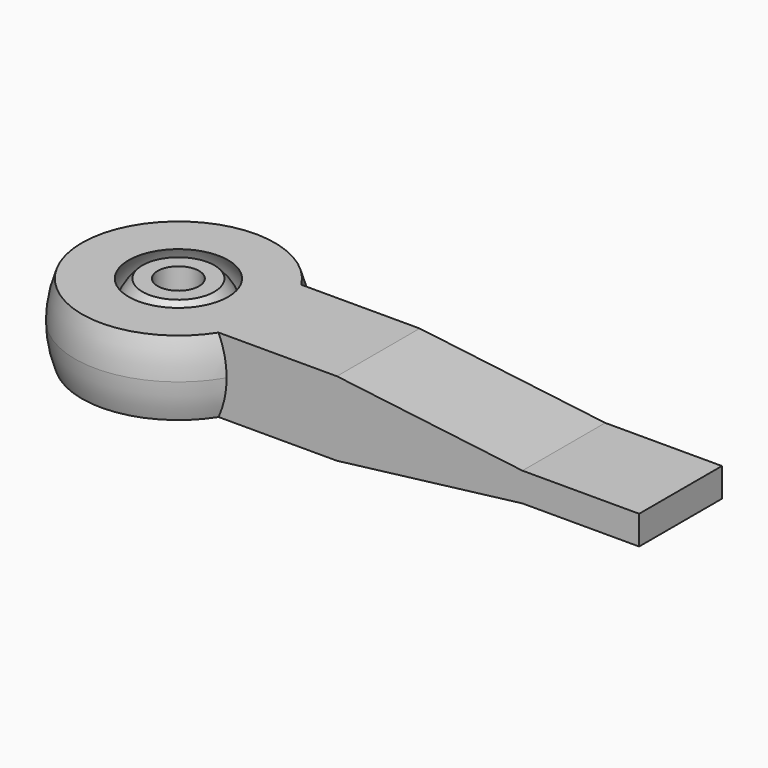
from build123d import *

# Parameters (mm, degrees)
F2_DEPTH      = 5
F2_DEPTH_BACK = 5


with BuildPart() as f1:
    # F0 (on Front) → F1 (revolve)
    with BuildSketch(Plane.XZ):
        with BuildLine():
            ThreePointArc((3.4750503593, -3.595), (4.6030018356, -1.9525301794), (5, 0))
            Line((5, 0), (2, 0))
            Line((2, 0), (2, -3.595))
            Line((2, -3.595), (3.4750503593, -3.595))
        make_face()
        with BuildLine():
            Line((2, 0), (5, 0))
            ThreePointArc((5, 0), (4.6030018356, 1.9525301794), (3.4750503593, 3.595))
            Line((3.4750503593, 3.595), (2, 3.595))
            Line((2, 3.595), (2, 0))
        make_face()
    revolve(axis=Axis((0, 0, -0.8289581165), (0, 0, -1)))


with BuildPart() as f1b:
    # F0 (on Front) → F1, piece 2 (revolve)
    with BuildSketch(Plane.XZ):
        with BuildLine():
            Line((7.067598393, -3.595), (7.067598393, 0))
            Line((7.067598393, 0), (6, 0))
            ThreePointArc((6, 0), (5.693086843, -1.8944028604), (4.8037459342, -3.595))
            Line((4.8037459342, -3.595), (7.067598393, -3.595))
        make_face()
        with BuildLine():
            Line((7.067598393, 0), (7.067598393, 3.595))
            Line((7.067598393, 3.595), (4.8037459342, 3.595))
            ThreePointArc((4.8037459342, 3.595), (5.693086843, 1.8944028604), (6, 0))
            Line((6, 0), (7.067598393, 0))
        make_face()
        with BuildLine():
            ThreePointArc((10, 0), (9.8314421251, 1.8283177352), (9.3314508518, 3.595))
            Line((9.3314508518, 3.595), (7.067598393, 3.595))
            Line((7.067598393, 3.595), (7.067598393, 0))
            Line((7.067598393, 0), (10, 0))
        make_face()
        with BuildLine():
            ThreePointArc((9.3314508518, -3.595), (9.8314421251, -1.8283177352), (10, 0))
            Line((10, 0), (7.067598393, 0))
            Line((7.067598393, 0), (7.067598393, -3.595))
            Line((7.067598393, -3.595), (9.3314508518, -3.595))
        make_face()
    revolve(axis=Axis((0, 0, -0.8289581165), (0, 0, -1)))

    # F0 (on Front) → F2 (join, two sides)
    with BuildSketch(Plane.XZ) as f2_sk:
        with BuildLine():
            Line((19.3147519061, 3.595), (9.3314508518, 3.595))
            ThreePointArc((9.3314508518, 3.595), (9.8314421251, 1.8283177352), (10, 0))
            ThreePointArc((10, 0), (9.8314421251, -1.8283177352), (9.3314508518, -3.595))
            Line((9.3314508518, -3.595), (19.3147519061, -3.595))
            Line((19.3147519061, -3.595), (37.2479334474, -1.3942536898))
            Line((37.2479334474, -1.3942536898), (48.5257059336, -1.3942536898))
            Line((48.5257059336, -1.3942536898), (48.5257059336, 1.3942536898))
            Line((48.5257059336, 1.3942536898), (37.2479334474, 1.3942536898))
            Line((37.2479334474, 1.3942536898), (19.3147519061, 3.595))
        make_face()
        with BuildLine():
            ThreePointArc((10, 0), (9.8314421251, 1.8283177352), (9.3314508518, 3.595))
            Line((9.3314508518, 3.595), (7.067598393, 3.595))
            Line((7.067598393, 3.595), (7.067598393, 0))
            Line((7.067598393, 0), (10, 0))
        make_face()
        with BuildLine():
            ThreePointArc((9.3314508518, -3.595), (9.8314421251, -1.8283177352), (10, 0))
            Line((10, 0), (7.067598393, 0))
            Line((7.067598393, 0), (7.067598393, -3.595))
            Line((7.067598393, -3.595), (9.3314508518, -3.595))
        make_face()
    extrude(amount=F2_DEPTH)
    extrude(f2_sk.sketch, amount=-F2_DEPTH_BACK)


solid = Compound([f1.part, f1b.part])
